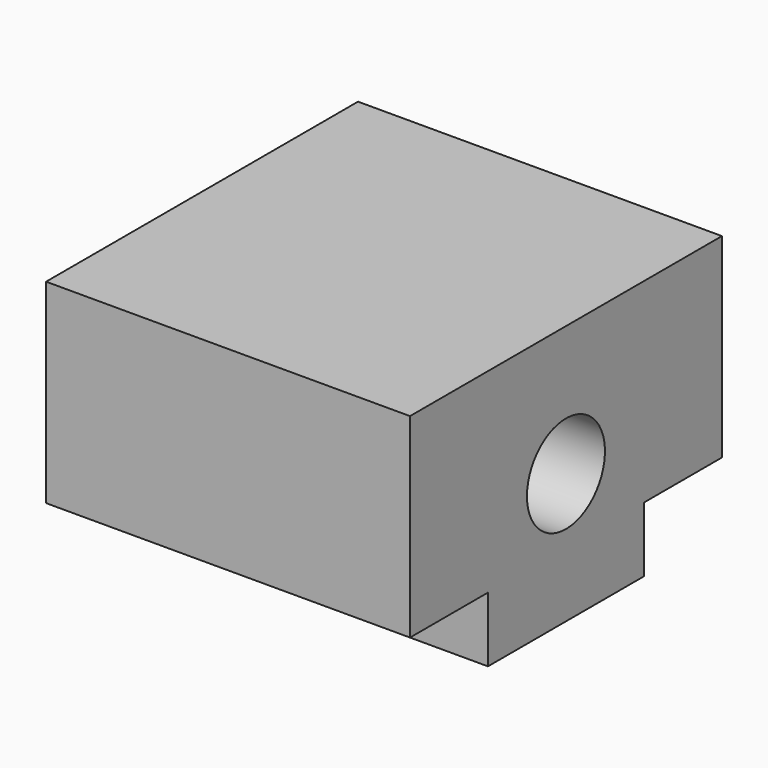
from build123d import *

# Parameters (mm, degrees)
F1_DEPTH = 56
F3_D     = 15
F3_DEPTH = 20
F3_TIP   = 4.5064546427


with BuildPart() as f1:
    # F0 (on Right) → F1 (new body)
    with BuildSketch(Plane.YZ):
        Polygon((-15, 0), (0, 0), (15, 0), (15, 10), (30, 10), (30, 40), (0, 40), (-30, 40), (-30, 10), (-15, 10), align=None)
    extrude(amount=F1_DEPTH)

    # F3
    with Locations(Plane.YZ.offset(56)):
        with Locations((0, 20)):
            Hole(F3_D / 2, depth=F3_DEPTH)
            with Locations((0, 0, -(F3_DEPTH + F3_TIP / 2))):  # 118° drill point
                Cone(0, F3_D / 2, F3_TIP, mode=Mode.SUBTRACT)


solid = f1.part
